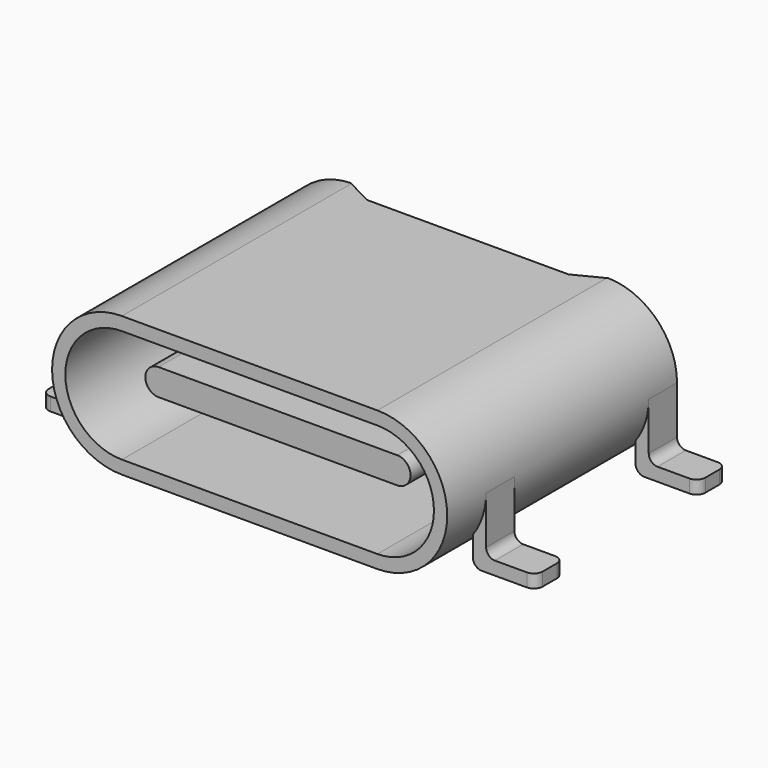
from build123d import *

# Parameters (mm, degrees)
PAD_DEPTH     = 6.5
POCKET_DEPTH  = 3.161
SKETCH002_W   = 0.3
SKETCH002_H   = 0.8
PAD001_DEPTH  = 1.58
SKETCH007_W   = 0.6
SKETCH007_H   = 0.7
SKETCH007_W_2 = 0.56
SKETCH007_W_3 = 0.52
PAD002_DEPTH  = 0.2
PAD003_DEPTH  = 2
PAD004_DEPTH  = 5.7
SKETCH008_W   = 1.42
SKETCH008_H   = 0.8
PAD005_DEPTH  = 0.3
FILLET_R      = 0.2


with BuildPart() as part:
    # Sketch → Pad (new body)
    with BuildSketch(Plane.XZ):
        with BuildLine():
            ThreePointArc((-2.89, 3.16), (-4.47, 1.58), (-2.89, 0))
            Line((-2.89, 0), (2.89, 0))
            ThreePointArc((2.89, 0), (4.47, 1.58), (2.89, 3.16))
            Line((2.89, 3.16), (-2.89, 3.16))
        make_face()
        with BuildLine():
            ThreePointArc((-2.89, 2.86), (-4.17, 1.58), (-2.89, 0.3))
            Line((-2.89, 0.3), (2.89, 0.3))
            ThreePointArc((2.89, 0.3), (4.17, 1.58), (2.89, 2.86))
            Line((2.89, 2.86), (-2.89, 2.86))
        make_face(mode=Mode.SUBTRACT)
    extrude(amount=PAD_DEPTH)

    # Sketch001 (on DatumPlane) → Pocket (cut, through all)
    with BuildSketch(Plane(origin=(0, 0, 3.16), x_dir=(-1, 0, 0), z_dir=(0, 0, 1))):
        Polygon((-2.917, 0), (2.917, 0), (2.275486, 0.326), (-2.275486, 0.326), align=None)
    extrude(amount=-POCKET_DEPTH, mode=Mode.SUBTRACT)

    # Sketch002 (on DatumPlane) → Pad001 (join)
    with BuildSketch(Plane(origin=(0, 0, 0), x_dir=(1, 0, 0), z_dir=(0, 0, -1))):
        with Locations((-4.32, 5)):
            Rectangle(SKETCH002_W, SKETCH002_H)
        with Locations((4.32, 5)):
            Rectangle(SKETCH002_W, SKETCH002_H)
        with Locations((-4.32, 0.4)):
            Rectangle(SKETCH002_W, SKETCH002_H)
        with Locations((4.32, 0.4)):
            Rectangle(SKETCH002_W, SKETCH002_H)
    extrude(amount=-PAD001_DEPTH)

    # Sketch007 → Pad002 (join)
    with BuildSketch(Plane(origin=(0, 0, 0), x_dir=(1, 0, 0), z_dir=(0, 0, -1))):
        with Locations((-2.75, 0.23)):
            Rectangle(SKETCH007_W, SKETCH007_H)
        with Locations((-1.52, 0.23)):
            Rectangle(SKETCH007_W_2, SKETCH007_H)
        with Locations((-0.5, 0.23)):
            Rectangle(SKETCH007_W_3, SKETCH007_H)
        with Locations((2.75, 0.23)):
            Rectangle(SKETCH007_W, SKETCH007_H)
        with Locations((1.52, 0.23)):
            Rectangle(SKETCH007_W_2, SKETCH007_H)
        with Locations((0.5, 0.23)):
            Rectangle(SKETCH007_W_3, SKETCH007_H)
    extrude(amount=-PAD002_DEPTH)

    # Sketch005 (on DatumPlane) → Pad003 (join)
    with BuildSketch(Plane(origin=(0, 0, 0), x_dir=(1, 0, 0), z_dir=(0, 1, 0))):
        with BuildLine():
            ThreePointArc((-2.95, -0.3), (-4.23, -1.58), (-2.95, -2.86))
            Line((-2.95, -2.86), (2.95, -2.86))
            ThreePointArc((2.95, -2.86), (4.23, -1.58), (2.95, -0.3))
            Line((2.95, -0.3), (-2.95, -0.3))
        make_face()
    extrude(amount=-PAD003_DEPTH)

    # Sketch006 (on DatumPlane) → Pad004 (join)
    with BuildSketch(Plane(origin=(0, 0, 0), x_dir=(1, 0, 0), z_dir=(0, 1, 0))):
        with BuildLine():
            ThreePointArc((-2.7, -1.28), (-3, -1.58), (-2.7, -1.88))
            Line((-2.7, -1.88), (2.7, -1.88))
            ThreePointArc((2.7, -1.88), (3, -1.58), (2.7, -1.28))
            Line((2.7, -1.28), (-2.7, -1.28))
        make_face()
    extrude(amount=-PAD004_DEPTH)

    # Sketch008 (on DatumPlane) → Pad005 (join)
    with BuildSketch(Plane(origin=(0, 0, 0), x_dir=(1, 0, 0), z_dir=(0, 0, -1))):
        with Locations((-4.88, 5)):
            Rectangle(SKETCH008_W, SKETCH008_H)
        with Locations((-4.88, 0.4)):
            Rectangle(SKETCH008_W, SKETCH008_H)
        with Locations((4.88, 0.4)):
            Rectangle(SKETCH008_W, SKETCH008_H)
        with Locations((4.88, 5)):
            Rectangle(SKETCH008_W, SKETCH008_H)
    extrude(amount=-PAD005_DEPTH)

    # Fillet
    fillet_edges = [part.edges().sort_by_distance(p)[0] for p in [
        (4.47, -0.4, 0.3),
        (4.47, -5, 0.3),
        (4.17, -0.4, 0),
        (4.17, -5, 0),
        (-4.17, -0.4, 0),
        (-4.17, -5, 0),
        (-4.47, -0.4, 0.3),
        (-4.47, -5, 0.3),
        (-5.59, 0, 0.15),
        (-5.59, -5.4, 0.15),
        (-5.59, -0.8, 0.15),
        (5.59, -5.4, 0.15),
        (5.59, -4.6, 0.15),
        (5.59, 0, 0.15),
        (5.59, -0.8, 0.15),
    ]]
    fillet(fillet_edges, radius=FILLET_R)


solid = part.part
